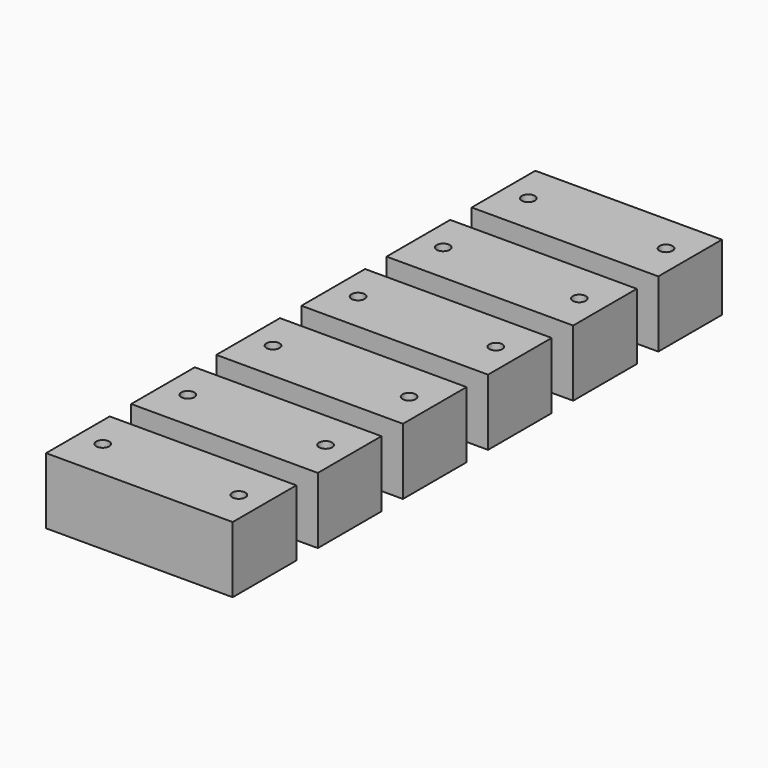
from build123d import *

# Parameters (mm, degrees)
F0_W     = 70.5866
F0_H     = 30.0863
F0_R     = 2.4765
F1_DEPTH = 25.0444


with BuildPart() as f1:
    # F0 (on Top) → F1 (new body)
    with BuildSketch(Plane.XY):
        with Locations((-5.880918, -9.313869)):
            Rectangle(F0_W, F0_H)
        with Locations((-31.776218, -9.313869)):
            Circle(F0_R, mode=Mode.SUBTRACT)
        with Locations((20.014382, -9.69882)):
            Circle(F0_R, mode=Mode.SUBTRACT)
        with Locations((-5.880918, -49.560169)):
            Rectangle(F0_W, F0_H)
        with Locations((-31.776218, -49.560169)):
            Circle(F0_R, mode=Mode.SUBTRACT)
        with Locations((20.014382, -49.175217)):
            Circle(F0_R, mode=Mode.SUBTRACT)
        with Locations((-5.880918, -89.806469)):
            Rectangle(F0_W, F0_H)
        with Locations((-31.776218, -89.806469)):
            Circle(F0_R, mode=Mode.SUBTRACT)
        with Locations((20.014382, -90.19142)):
            Circle(F0_R, mode=Mode.SUBTRACT)
        with Locations((-5.880918, 30.932431)):
            Rectangle(F0_W, F0_H)
        with Locations((-31.776218, 30.932431)):
            Circle(F0_R, mode=Mode.SUBTRACT)
        with Locations((20.014382, 31.317383)):
            Circle(F0_R, mode=Mode.SUBTRACT)
        with Locations((-5.880918, 71.178731)):
            Rectangle(F0_W, F0_H)
        with Locations((-31.776218, 71.178731)):
            Circle(F0_R, mode=Mode.SUBTRACT)
        with Locations((20.014382, 70.79378)):
            Circle(F0_R, mode=Mode.SUBTRACT)
        with Locations((-5.880918, 111.425031)):
            Rectangle(F0_W, F0_H)
        with Locations((-31.776218, 111.425031)):
            Circle(F0_R, mode=Mode.SUBTRACT)
        with Locations((20.014382, 111.809983)):
            Circle(F0_R, mode=Mode.SUBTRACT)
    extrude(amount=F1_DEPTH)


solid = f1.part
